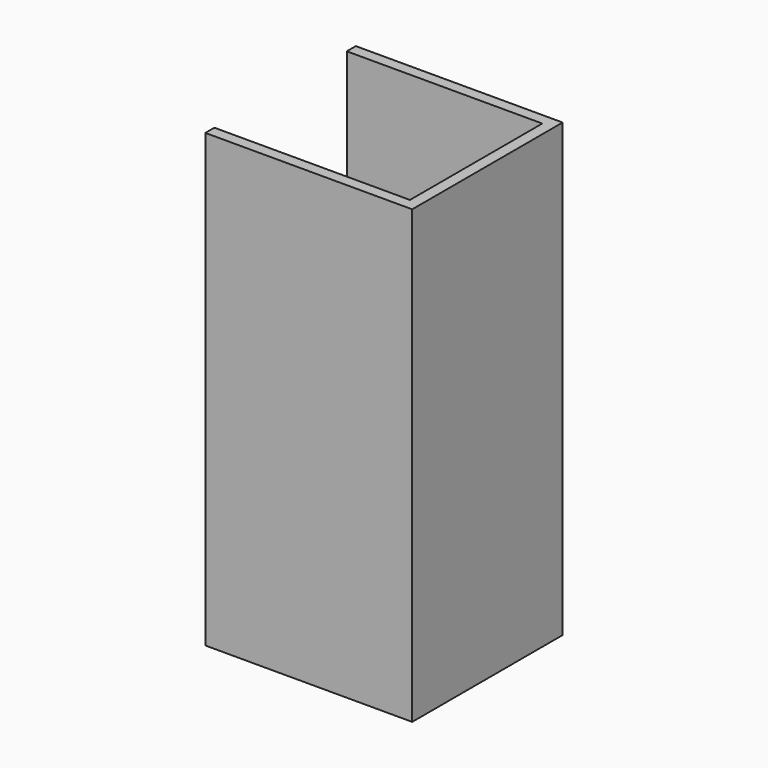
from build123d import *

# Parameters (mm, degrees)
F0_W     = 42.1406924725
F0_H     = 37.6295819879
F1_DEPTH = 330
F2_DEPTH = 300
F3_DEPTH = 720
F4_T     = -18


with BuildPart() as f1:
    # F0 (on Right) → F1 (new body)
    with BuildSketch(Plane.YZ):
        with Locations((-21.0703462362, 18.8147909939)):
            Rectangle(F0_W, F0_H)
    extrude(amount=F1_DEPTH)

    # F2 (add): a face of the model
    f2_faces = [f1.faces().sort_by_distance(p)[0] for p in [
        (165, 0, 18.8147909939),
    ]]
    extrude(f2_faces, amount=-F2_DEPTH)

    # F3 (add): a face of the model
    f3_faces = [f1.faces().sort_by_distance(p)[0] for p in [
        (165, -150, 0),
    ]]
    extrude(f3_faces, amount=-F3_DEPTH)

    # F4
    f4_openings = [f1.faces().sort_by_distance(p)[0] for p in [
        (0, -150, 360),
        (165, -150, 720),
    ]]
    offset(amount=F4_T, openings=f4_openings)


solid = f1.part
